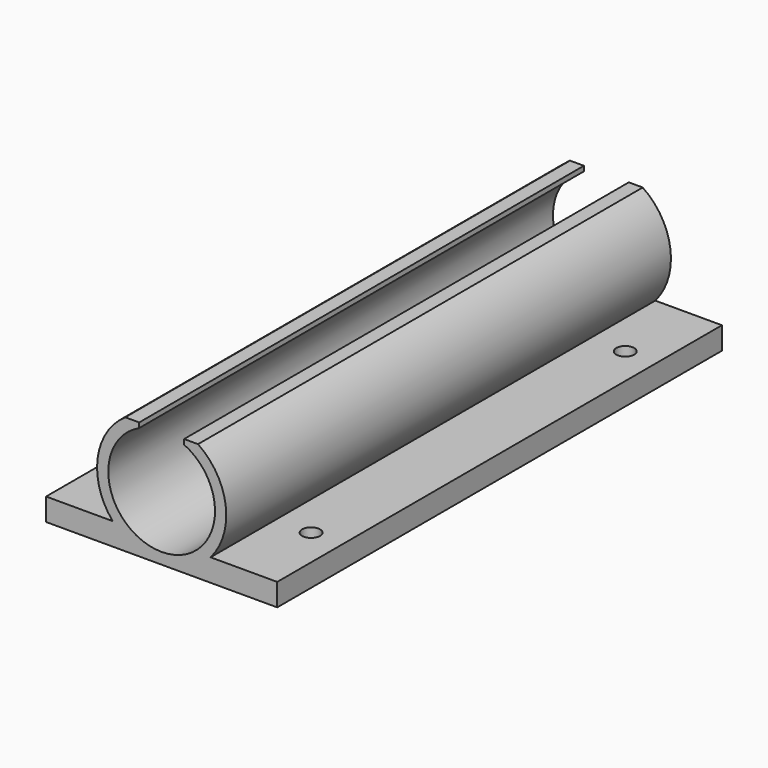
from build123d import *

# Parameters (mm, degrees)
F1_DEPTH = 99.083
F2_R     = 1.6
F3_DEPTH = 21.0256


with BuildPart() as f1:
    # F0 (on Front) → F1 (new body)
    with BuildSketch(Plane.XZ):
        with BuildLine():
            Line((-20.6, 4), (-20.6, 0))
            Line((-20.6, 0), (20.6, 0))
            Line((20.6, 0), (20.6, 4))
            Line((20.6, 4), (8.72344, 4))
            ThreePointArc((8.72344, 4), (11.414021, 13.013357), (6.484535, 21.0246))
            Line((6.484535, 21.0246), (4, 21.0246))
            Line((4, 21.0246), (4, 20.142703))
            ThreePointArc((4, 20.142703), (0, 2), (-4, 20.142703))
            Line((-4, 20.142703), (-4, 21.0246))
            Line((-4, 21.0246), (-6.484535, 21.0246))
            ThreePointArc((-6.484535, 21.0246), (-11.414021, 13.013357), (-8.72344, 4))
            Line((-8.72344, 4), (-20.6, 4))
        make_face()
    extrude(amount=F1_DEPTH)

    # F2 (on face) → F3 (cut, through all)
    with BuildSketch(Plane(origin=(0, 0, 0), x_dir=(1, 0, 0), z_dir=(0, 0, -1))):
        with Locations((15, 84.5415)):
            Circle(F2_R)
        with Locations((-15, 84.5415)):
            Circle(F2_R)
        with Locations((15, 14.5415)):
            Circle(F2_R)
        with Locations((-15, 14.5415)):
            Circle(F2_R)
    extrude(amount=-F3_DEPTH, mode=Mode.SUBTRACT)


solid = f1.part
